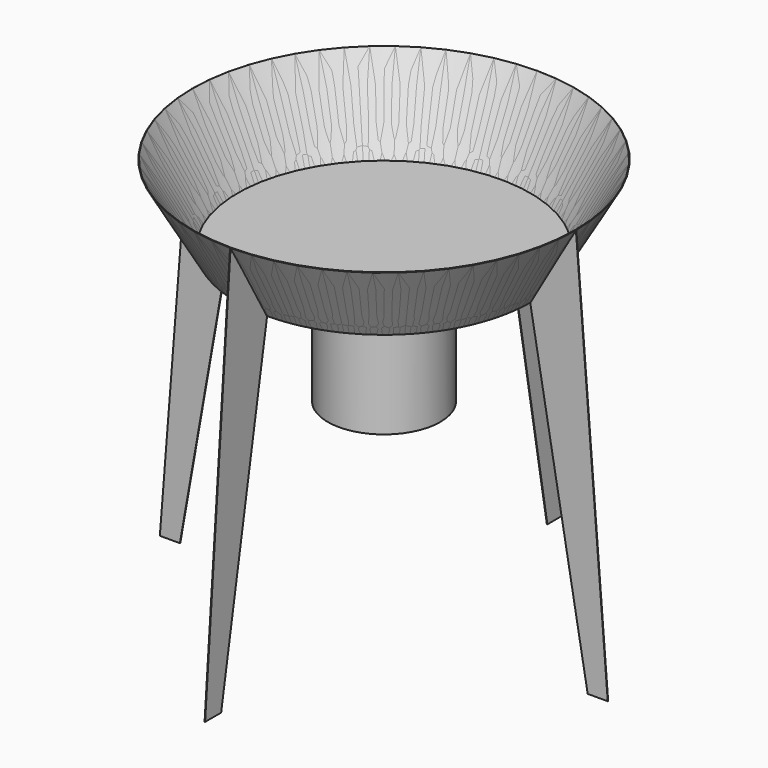
from build123d import *

# Parameters (mm, degrees)
F6_DEPTH  = 0.60706
F7_COUNT  = 4
F8_R      = 330.2
F9_DEPTH  = 1.21412
F10_R     = 127
F11_DEPTH = 304.8


with BuildPart() as f3:
    # F0 (on Front) → F3 (revolve)
    with BuildSketch(Plane.XZ):
        Polygon((-1.0514587632, -0.60706), (0, 0), (-101.6, 175.976362049), (-102.6514587632, 175.369302049), align=None)
    revolve(axis=Axis((330.2, 0, 50.7362931967), (0, 0, 1)))

    # F5 (on Front) → F6 (join, symmetric)
    with BuildSketch(Plane.XZ):
        Polygon((-129.8140228845, -736.2119079166), (0, 0), (-103.3004134051, 175.369302049), (-175.0434105387, -736.2119079166), align=None)
    extrude(amount=F6_DEPTH, both=True)


with BuildPart() as f7_1:
    # F7: instance of F3
    add(f3.part.rotate(Axis((330.2, 0, 50.7362931967), (0, 0, 1)), 1 * 360 / F7_COUNT))


with BuildPart() as f7_2:
    # F7: instance of F3
    add(f3.part.rotate(Axis((330.2, 0, 50.7362931967), (0, 0, 1)), 2 * 360 / F7_COUNT))


with BuildPart() as f7_3:
    # F7: instance of F3
    add(f3.part.rotate(Axis((330.2, 0, 50.7362931967), (0, 0, 1)), 3 * 360 / F7_COUNT))


with BuildPart() as f9:
    # F8 (on Top) → F9 (new body)
    with BuildSketch(Plane.XY):
        with Locations((330.2, 0)):
            Circle(F8_R)
    extrude(amount=F9_DEPTH)

    # F10 (on Top) → F11 (join)
    with BuildSketch(Plane.XY):
        with Locations((330.2, 0)):
            Circle(F10_R)
    extrude(amount=-F11_DEPTH)


solid = Compound([f3.part, f7_1.part, f7_2.part, f7_3.part, f9.part])
